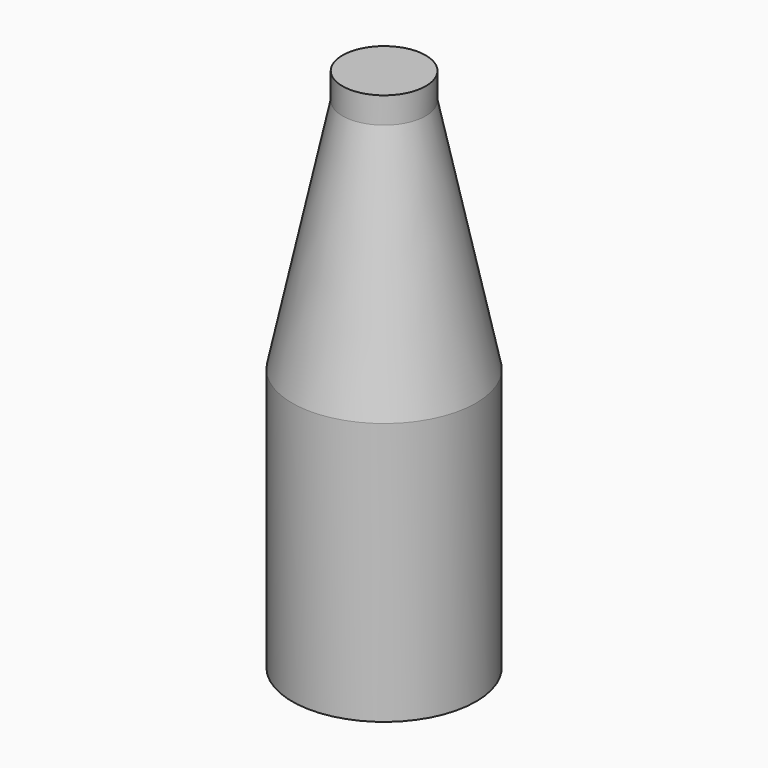
from build123d import *

# Parameters (mm, degrees)
F0_R      = 35
F1_DEPTH  = 100
F1_FACE_R = 35
F2_DEPTH  = 90
F2_TAPER  = 12
F3_DEPTH  = 10


with BuildPart() as f1:
    # F0 (on Top) → F1 (new body)
    with BuildSketch(Plane.XY):
        Circle(F0_R)
    extrude(amount=F1_DEPTH)

    # F1_face (on face) → F2 (join)
    with BuildSketch(Plane.XY.offset(100)):
        Circle(F1_FACE_R)
    extrude(amount=F2_DEPTH, taper=F2_TAPER)

    # F3 (add): a face of the model
    f3_faces = [f1.faces().sort_by_distance(p)[0] for p in [
        (0, 0, 190),
    ]]
    extrude(f3_faces, amount=F3_DEPTH)


solid = f1.part
